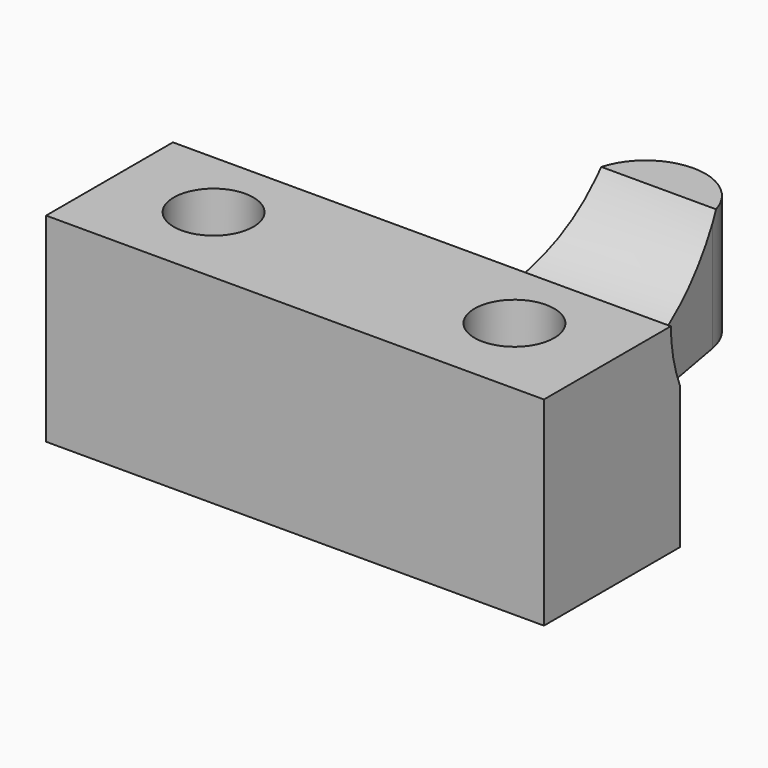
from build123d import *

# Parameters (mm, degrees)
SKETCH001_R  = 2
PAD_DEPTH    = 6
SKETCH_W     = 25
SKETCH_H     = 8.532326
SKETCH_R     = 2
PAD001_DEPTH = 4
SKETCH002_R  = 8
POCKET_DEPTH = 25.001


with BuildPart() as part:
    # Sketch001 → Pad (new body)
    with BuildSketch(Plane.XY):
        with BuildLine():
            Line((0, -0.513451), (12.5, -0.513451))
            Line((12.5, -0.513451), (12.5, 8.018875))
            Line((12.5, 8.018875), (5.444822, 8.018875))
            Line((5.444822, 8.018875), (2.947073, 22.018734))
            ThreePointArc((2.947073, 22.018734), (1.921936, 23.788122), (0, 24.486549))
            ThreePointArc((0, 24.486549), (-1.921936, 23.788122), (-2.947073, 22.018734))
            Line((-5.444822, 8.018875), (-2.947073, 22.018734))
            Line((-12.5, 8.018875), (-5.444822, 8.018875))
            Line((-12.5, -0.513451), (-12.5, 8.018875))
            Line((0, -0.513451), (-12.5, -0.513451))
        make_face()
        with Locations((-7.553649, 3.816244)):
            Circle(SKETCH001_R, mode=Mode.SUBTRACT)
        with Locations((7.553649, 3.816244)):
            Circle(SKETCH001_R, mode=Mode.SUBTRACT)
    extrude(amount=PAD_DEPTH)

    # Sketch → Pad001 (new body)
    with BuildSketch(Plane.XY.offset(6)):
        with Locations((0, 3.752712)):
            Rectangle(SKETCH_W, SKETCH_H)
        with Locations((-7.553649, 3.816244)):
            Circle(SKETCH_R, mode=Mode.SUBTRACT)
        with Locations((7.553649, 3.816244)):
            Circle(SKETCH_R, mode=Mode.SUBTRACT)
    extrude(amount=PAD001_DEPTH)

    # Sketch002 → Pocket (cut, through all)
    with BuildSketch(Plane.YZ.offset(12.5)):
        with Locations((15.447758, 10.107347)):
            Circle(SKETCH002_R)
    extrude(amount=-POCKET_DEPTH, mode=Mode.SUBTRACT)


solid = part.part
